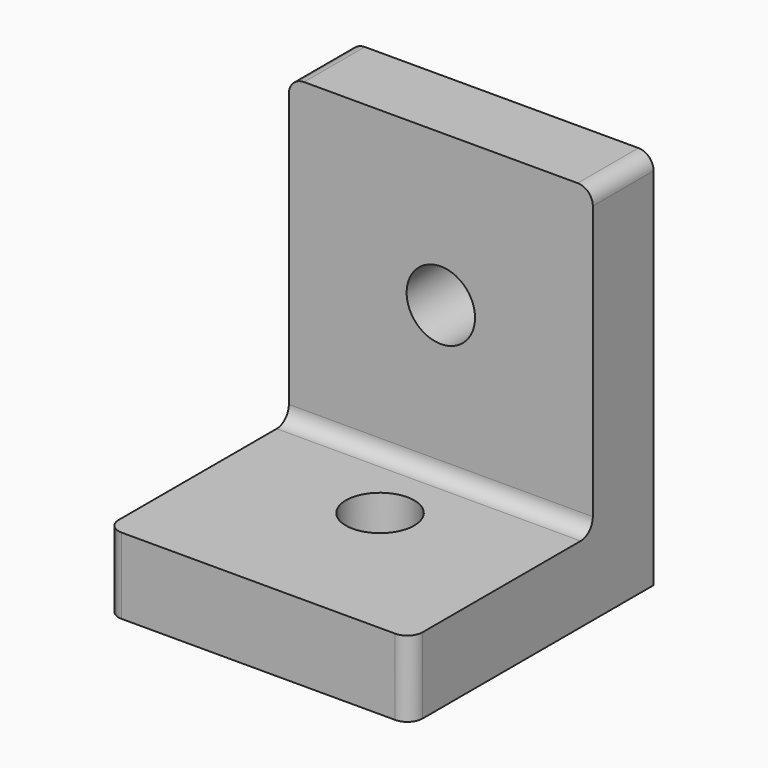
from build123d import *

# Parameters (mm, degrees)
F0_W     = 20
F0_H     = 15
F0_R     = 2.25
F1_DEPTH = 5
F0_H_2   = 5
F2_DEPTH = 25
F3_R     = 2.25
F4_DEPTH = 25
F5_R     = 1


with BuildPart() as f1:
    # F0 (on Top) → F1 (new body)
    with BuildSketch(Plane.XY):
        with Locations((0.344828, 7.5)):
            Rectangle(F0_W, F0_H)
        with Locations((0.344828, 10)):
            Circle(F0_R, mode=Mode.SUBTRACT)
    extrude(amount=F1_DEPTH)

    # F0 (on Top) → F2 (join)
    with BuildSketch(Plane.XY):
        with Locations((0.344828, 17.5)):
            Rectangle(F0_W, F0_H_2)
    extrude(amount=F2_DEPTH)

    # F3 (on face) → F4 (cut)
    with BuildSketch(Plane.XZ.offset(-15)):
        with Locations((0.344828, 15)):
            Circle(F3_R)
    extrude(amount=-F4_DEPTH, mode=Mode.SUBTRACT)

    # F5
    f5_edges = [f1.edges().sort_by_distance(p)[0] for p in [
        (-9.655172, 17.5, 25),
        (10.344828, 17.5, 25),
        (-9.655172, 0, 2.5),
        (10.344828, 0, 2.5),
        (0.344828, 15, 5),
    ]]
    fillet(f5_edges, radius=F5_R)


solid = f1.part
